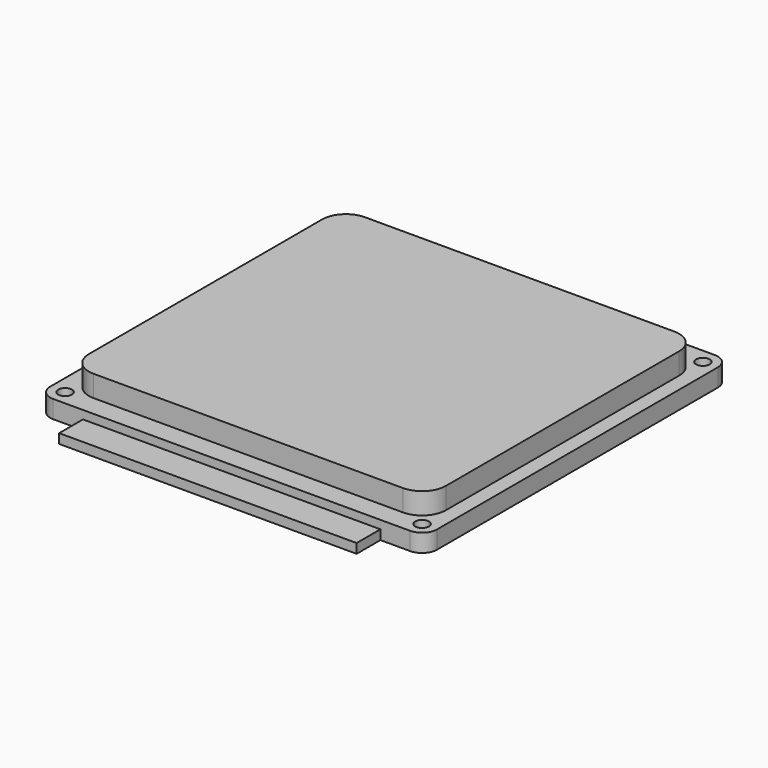
from build123d import *

# Parameters (mm, degrees)
F0_R     = 1.15
F1_DEPTH = 3
F3_DEPTH = 3.6
F4_W     = 25
F4_H     = 5
F5_DEPTH = 1.6


with BuildPart() as f1:
    # F0 (on Top) → F1 (new body)
    with BuildSketch(Plane.XY):
        with BuildLine():
            ThreePointArc((-32.5, -29.5), (-31.767767, -31.267767), (-30, -32))
            Line((-30, -32), (30, -32))
            ThreePointArc((30, -32), (31.767767, -31.267767), (32.5, -29.5))
            Line((32.5, -29.5), (32.5, 29.5))
            ThreePointArc((32.5, 29.5), (31.767767, 31.267767), (30, 32))
            Line((30, 32), (-30, 32))
            ThreePointArc((-30, 32), (-31.767767, 31.267767), (-32.5, 29.5))
            Line((-32.5, 29.5), (-32.5, -29.5))
        make_face()
        with Locations((-30, -29.5)):
            Circle(F0_R, mode=Mode.SUBTRACT)
        with Locations((30, -29.5)):
            Circle(F0_R, mode=Mode.SUBTRACT)
        with Locations((-30, 29.5)):
            Circle(F0_R, mode=Mode.SUBTRACT)
        with Locations((30, 29.5)):
            Circle(F0_R, mode=Mode.SUBTRACT)
    extrude(amount=F1_DEPTH)

    # F2 (on face) → F3 (join)
    with BuildSketch(Plane.XY.offset(3)):
        with BuildLine():
            Line((26, 28.5), (-26, 28.5))
            ThreePointArc((-26, 28.5), (-28.828427, 27.328427), (-30, 24.5))
            Line((-30, 24.5), (-30, -24.5))
            ThreePointArc((-30, -24.5), (-28.828427, -27.328427), (-26, -28.5))
            Line((-26, -28.5), (26, -28.5))
            ThreePointArc((26, -28.5), (28.828427, -27.328427), (30, -24.5))
            Line((30, -24.5), (30, 24.5))
            ThreePointArc((30, 24.5), (28.828427, 27.328427), (26, 28.5))
        make_face()
    extrude(amount=F3_DEPTH)

    # F4 (on face) → F5 (join)
    with BuildSketch(Plane(origin=(0, 0, 0), x_dir=(1, 0, 0), z_dir=(0, 0, -1))):
        with Locations((-12.5, 34.5)):
            Rectangle(F4_W, F4_H)
        with Locations((12.5, 34.5)):
            Rectangle(F4_W, F4_H)
    extrude(amount=-F5_DEPTH)


solid = f1.part
